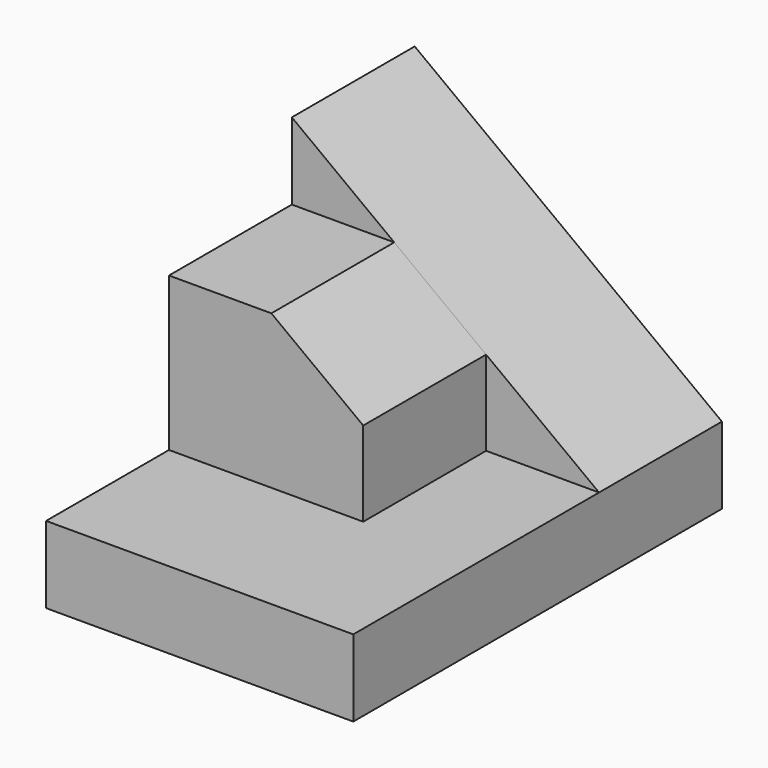
from build123d import *

# Parameters (mm, degrees)
F0_W     = 25.4
F0_H     = 6.35
F1_DEPTH = 38.1
F3_DEPTH = 12.7
F5_DEPTH = 12.7


with BuildPart() as f1:
    # F0 (on Front) → F1 (new body)
    with BuildSketch(Plane.XZ):
        with Locations((12.7, 3.175)):
            Rectangle(F0_W, F0_H)
    extrude(amount=-F1_DEPTH)

    # F2 (on face) → F3 (join)
    with BuildSketch(Plane(origin=(0, 38.1, 0), x_dir=(-1, 0, 0), z_dir=(0, 1, 0))):
        Polygon((-25.4, 6.35), (0, 6.35), (0, 25.4), align=None)
    extrude(amount=-F3_DEPTH)

    # F4 (on face) → F5 (join)
    with BuildSketch(Plane.XZ.offset(-25.4)):
        Polygon((0, 19.05), (0, 6.35), (16.062235, 6.35), (16.062235, 13.353323), (8.466667, 19.05), align=None)
    extrude(amount=F5_DEPTH)


solid = f1.part
